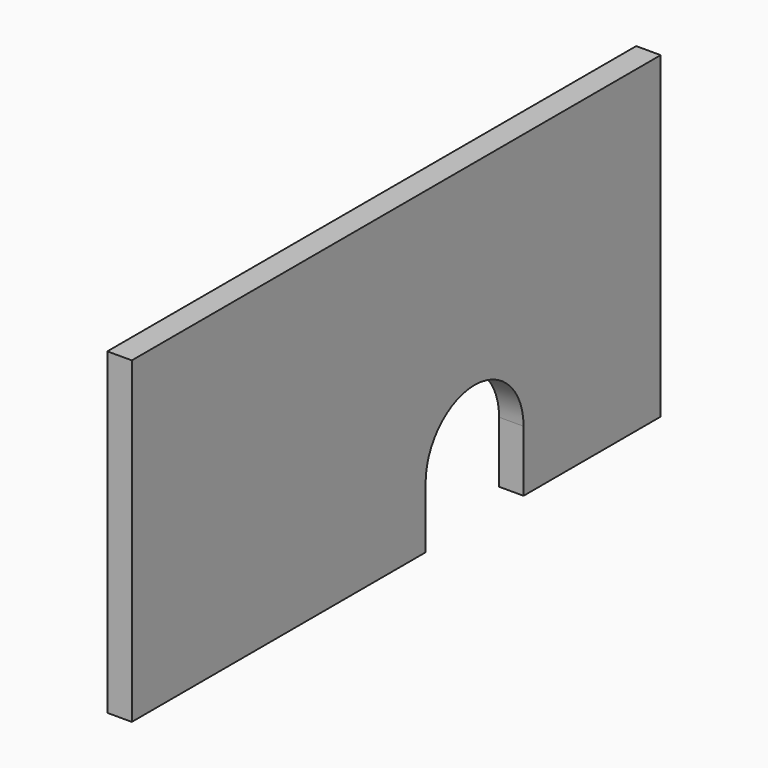
from build123d import *

# Parameters (mm, degrees)
F1_DEPTH = 2


with BuildPart() as f1:
    # F0 (on Right) → F1 (new body)
    with BuildSketch(Plane.YZ):
        with BuildLine():
            Line((54, 0), (0, 0))
            Line((0, 0), (0, -26))
            Line((0, -26), (30, -26))
            Line((30, -26), (30, -21))
            ThreePointArc((30, -21), (31.464466, -17.464466), (35, -16))
            ThreePointArc((35, -16), (38.535534, -17.464466), (40, -21))
            Line((40, -21), (40, -26))
            Line((40, -26), (54, -26))
            Line((54, -26), (54, 0))
        make_face()
    extrude(amount=F1_DEPTH)


solid = f1.part
